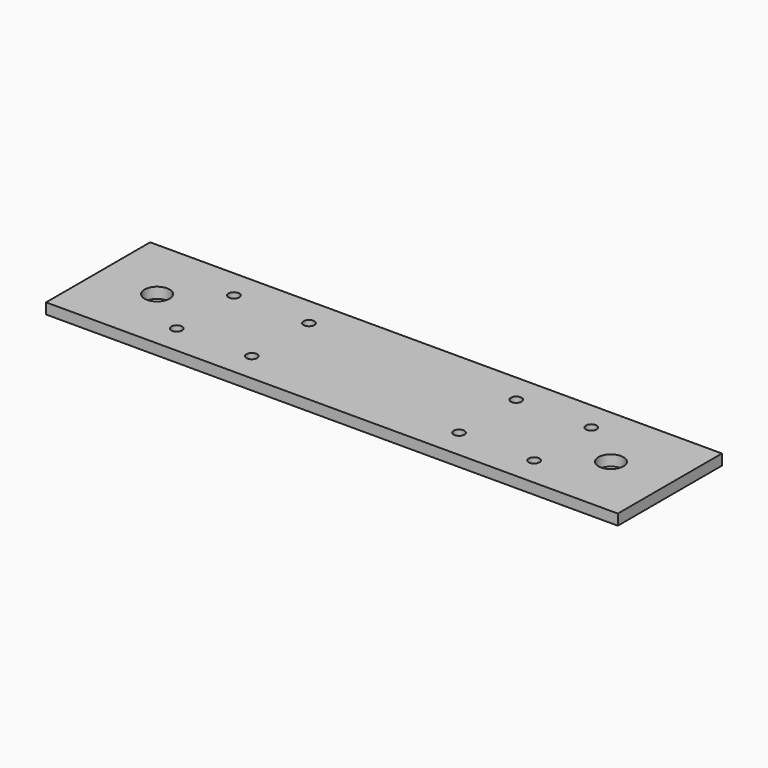
from build123d import *

# Parameters (mm, degrees)
F0_W     = 160
F0_H     = 36.407184
F0_R     = 1.5
F0_R_2   = 3.5
F1_DEPTH = 3


with BuildPart() as f1:
    # F0 (on Top) → F1 (new body)
    with BuildSketch(Plane.XY):
        Rectangle(F0_W, F0_H)
        with Locations((-50, -10)):
            Circle(F0_R, mode=Mode.SUBTRACT)
        with Locations((-29, -10)):
            Circle(F0_R, mode=Mode.SUBTRACT)
        with Locations((29, -10)):
            Circle(F0_R, mode=Mode.SUBTRACT)
        with Locations((50, -10)):
            Circle(F0_R, mode=Mode.SUBTRACT)
        with Locations((-63.5, 0)):
            Circle(F0_R_2, mode=Mode.SUBTRACT)
        with Locations((-50, 10)):
            Circle(F0_R, mode=Mode.SUBTRACT)
        with Locations((-29, 10)):
            Circle(F0_R, mode=Mode.SUBTRACT)
        with Locations((63.5, 0)):
            Circle(F0_R_2, mode=Mode.SUBTRACT)
        with Locations((29, 10)):
            Circle(F0_R, mode=Mode.SUBTRACT)
        with Locations((50, 10)):
            Circle(F0_R, mode=Mode.SUBTRACT)
    extrude(amount=F1_DEPTH)


solid = f1.part
